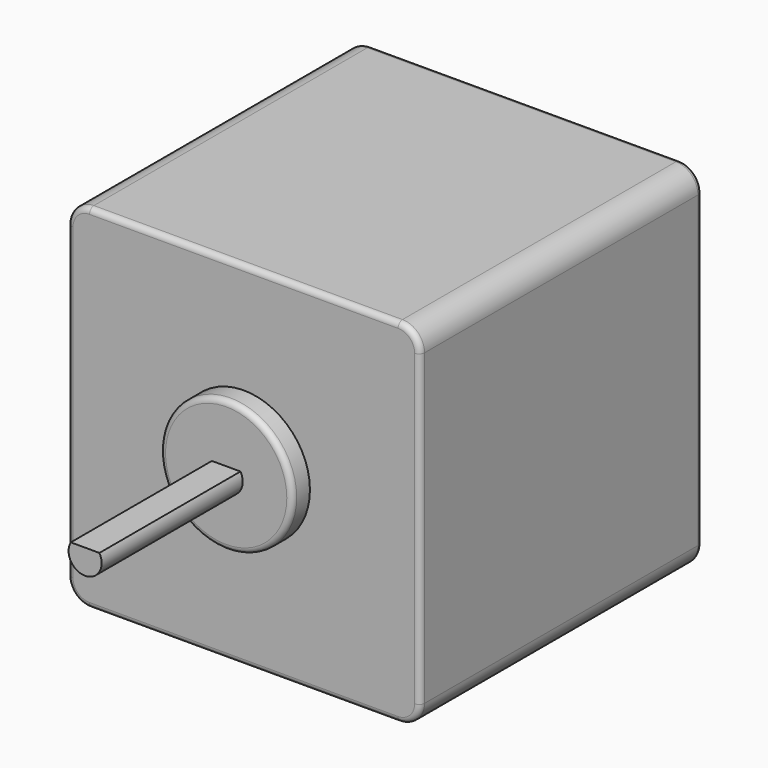
from build123d import *

# Parameters (mm, degrees)
F0_W     = 50.8
F0_H     = 50.8
F0_R     = 9.525
F1_DEPTH = 50.8
F2_DEPTH = 3.175
F3_R     = 2.38125
F4_DEPTH = 25.4
F5_W     = 4.124446
F5_H     = 1.190625
F6_DEPTH = 25.4
F7_R     = 3.175
F8_R     = 0.79375


with BuildPart() as f1:
    # F0 (on Front) → F1 (new body)
    with BuildSketch(Plane.XZ):
        Rectangle(F0_W, F0_H)
        Circle(F0_R, mode=Mode.SUBTRACT)
        Circle(F0_R)
    extrude(amount=-F1_DEPTH)

    # F0 (on Front) → F2 (join)
    with BuildSketch(Plane.XZ):
        Circle(F0_R)
    extrude(amount=F2_DEPTH)

    # F3 (on face) → F4 (join)
    with BuildSketch(Plane.XZ.offset(3.175)):
        Circle(F3_R)
    extrude(amount=F4_DEPTH)

    # F5 (on face) → F6 (cut, through all)
    with BuildSketch(Plane.XZ.offset(28.575)):
        with Locations((0, 1.785938)):
            Rectangle(F5_W, F5_H)
    extrude(amount=-F6_DEPTH, mode=Mode.SUBTRACT)

    # F7
    f7_edges = [f1.edges().sort_by_distance(p)[0] for p in [
        (25.4, 25.4, 25.4),
        (25.4, 25.4, -25.4),
        (-25.4, 25.4, 25.4),
        (-25.4, 25.4, -25.4),
    ]]
    fillet(f7_edges, radius=F7_R)

    # F8
    f8_edges = [f1.edges().sort_by_distance(p)[0] for p in [
        (0, 0, 25.4),
        (0, 50.8, 25.4),
        (-9.525, -3.175, 0),
    ]]
    fillet(f8_edges, radius=F8_R)


solid = f1.part
